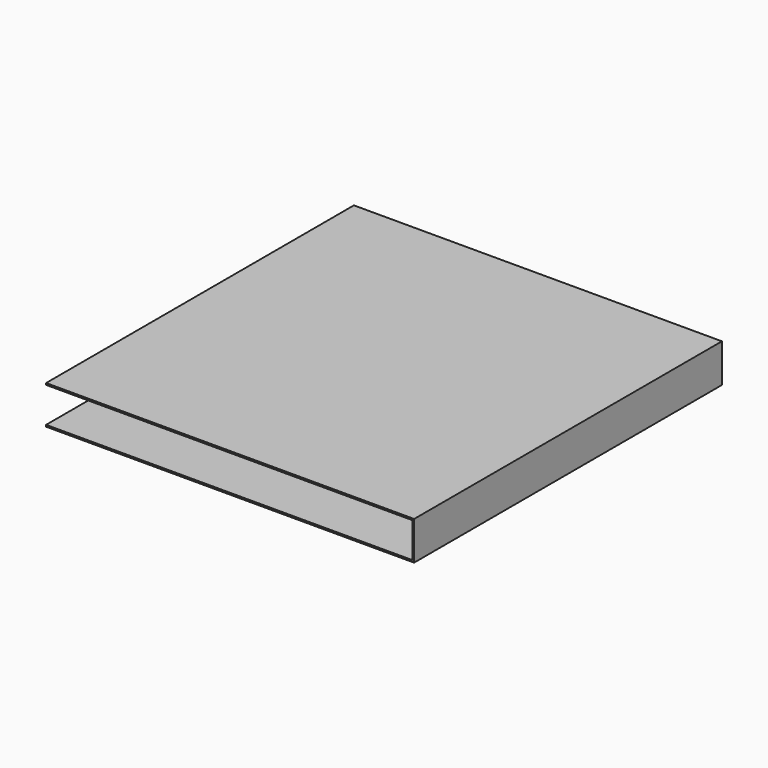
from build123d import *

# Parameters (mm, degrees)
BOX079_W               = 11.5
BOX079_H               = 10.95
BOX079_DEPTH           = 1.05
BOX078_W               = 11.5
BOX078_H               = 11
BOX078_DEPTH           = 1.15
CUT025_PLACEMENT_ANGLE = 270


with BuildPart() as small_cu_gnd_electrode024:
    # Box079 → Box079 (new body)
    with BuildSketch(Plane.XY.offset(0.05)):
        with Locations((5.75, 5.475)):
            Rectangle(BOX079_W, BOX079_H)
    extrude(amount=BOX079_DEPTH)


with BuildPart() as large_cu_electrode_short_axis_gnd003:
    # Box078 → Box078 (new body)
    with BuildSketch(Plane.XY):
        with Locations((5.75, 5.5)):
            Rectangle(BOX078_W, BOX078_H)
    extrude(amount=BOX078_DEPTH)

    # Cut025: cut Small Cu GND Electrode024
    add(small_cu_gnd_electrode024.part, mode=Mode.SUBTRACT)


with BuildPart() as large_cu_electrode_short_axis_gnd003_1:
    # Cut025 placement: moved
    add(large_cu_electrode_short_axis_gnd003.part.moved(Location((-4.76, 21.13, 21.7))).rotate(Axis((-4.76, 21.13, 21.7), (0, 0, 1)), CUT025_PLACEMENT_ANGLE))


solid = large_cu_electrode_short_axis_gnd003_1.part
